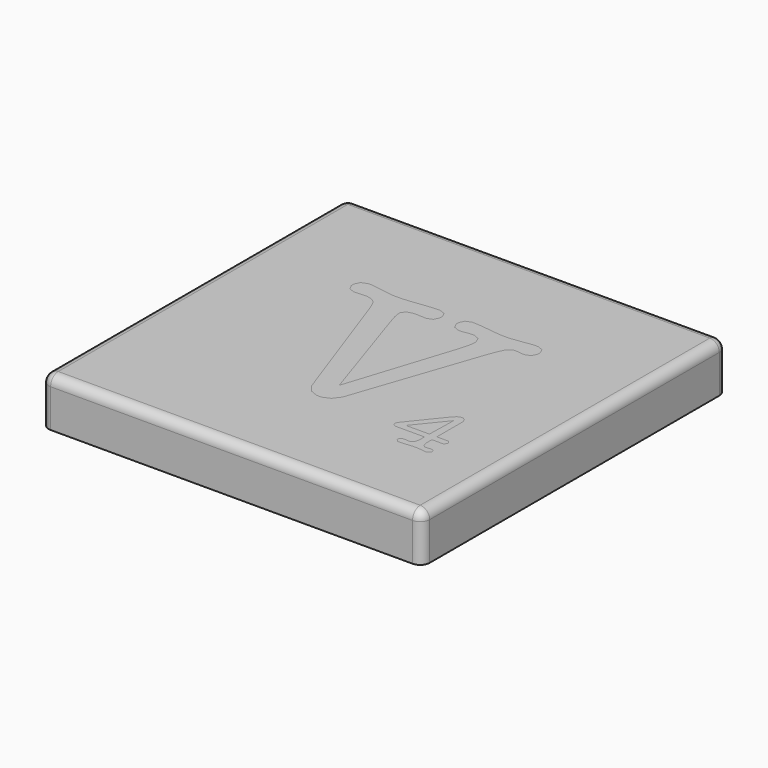
from build123d import *

# Parameters (mm, degrees)
F0_W     = 40
F0_H     = 40
F1_DEPTH = 5
F2_R     = 1
F5_DEPTH = 3


with BuildPart() as f1:
    # F0 (on Top) → F1 (new body)
    with BuildSketch(Plane.XY):
        Rectangle(F0_W, F0_H)
    extrude(amount=-F1_DEPTH)

    # F2
    f2_edges = [f1.edges().sort_by_distance(p)[0] for p in [
        (0, -20, 0),
        (20, 0, 0),
        (0, 20, 0),
        (-20, 0, 0),
        (-20, 20, -2.5),
        (20, 20, -2.5),
        (-20, -20, -2.5),
        (20, -20, -2.5),
    ]]
    fillet(f2_edges, radius=F2_R)


with BuildPart() as f5:
    # F3 (on Top) + F4 (on Top) → F5 (new body)
    with BuildSketch(Plane.XY):
        Polygon((0.516077, -6.520866), (-3.214268, 4.776292), (-3.506445, 5.728513), (-3.528492, 5.800166), (-3.638728, 6.323838), (-3.638728, 6.522263), (-3.638728, 6.66148), (-3.347949, 7.07898), (-2.693391, 7.263663), (-2.47429, 7.263663), (-2.369541, 7.263663), (-2.051228, 7.241616), (-2.023643, 7.237501), (-1.759052, 7.237501), (-1.728749, 7.233336), (-1.581302, 7.209892), (-1.52207, 7.209892), (-1.334643, 7.209892), (-0.768248, 7.449693), (-0.516077, 7.98576), (-0.516077, 8.163535), (-0.516077, 8.327492), (-0.761365, 8.818067), (-1.311224, 9.035821), (-1.494485, 9.035821), (-1.695679, 9.035821), (-2.296516, 8.993099), (-3.211525, 8.892515), (-3.426511, 8.863559), (-3.642868, 8.836), (-4.564786, 8.735416), (-5.180762, 8.692693), (-5.384698, 8.692693), (-5.978627, 8.692693), (-7.757668, 8.935237), (-8.004353, 8.983447), (-8.070494, 8.997213), (-8.540394, 9.061983), (-8.718169, 9.061983), (-8.916619, 9.061983), (-9.511919, 8.825001), (-9.776511, 8.288909), (-9.776511, 8.109763), (-9.776511, 7.936128), (-9.518802, 7.415251), (-8.938666, 7.18373), (-8.744356, 7.18373), (-8.63412, 7.18373), (-8.299247, 7.205777), (-8.24136, 7.209892), (-8.184871, 7.215454), (-7.865161, 7.237501), (-7.739761, 7.237501), (-7.568895, 7.237501), (-7.052107, 7.125868), (-6.637325, 6.862674), (-6.575323, 6.786855), (-6.540856, 6.74276), (-6.331407, 6.344514), (-6.077839, 5.707837), (-6.019978, 5.54388), (-1.283665, -7.765237), (-1.209218, -7.980197), (-0.629082, -8.736736), (0.168808, -9.061958), (0.436143, -9.061958), (0.692455, -9.061958), (1.461414, -8.736736), (2.027758, -7.980197), (2.103577, -7.765237), (6.443015, 4.96095), (6.525666, 5.203469), (6.888124, 6.162599), (7.176135, 6.781343), (7.222973, 6.852996), (7.268439, 6.926047), (7.768692, 7.289851), (7.950581, 7.289851), (8.082864, 7.289851), (8.691982, 7.237501), (8.704351, 7.233336), (8.770518, 7.209892), (8.79668, 7.209892), (8.979992, 7.209892), (9.531198, 7.435926), (9.776485, 7.941666), (9.776485, 8.109763), (9.776485, 8.283397), (9.531198, 8.804326), (8.979992, 9.035821), (8.79668, 9.035821), (8.603793, 9.035821), (8.024978, 8.971051), (7.950581, 8.957285), (7.716291, 8.917305), (6.183935, 8.71888), (5.595518, 8.71888), (5.415001, 8.71888), (4.877562, 8.758834), (4.076903, 8.851163), (3.889502, 8.877351), (3.702075, 8.904884), (2.906954, 8.997213), (2.383333, 9.035821), (2.209698, 9.035821), (2.020875, 9.035821), (1.454506, 8.811209), (1.203706, 8.305444), (1.203706, 8.13595), (1.203706, 7.962341), (1.461414, 7.441438), (2.04155, 7.209892), (2.23586, 7.209892), (2.364029, 7.209892), (2.751226, 7.265035), (2.817393, 7.276059), (2.883535, 7.287082), (3.254223, 7.3422), (3.400323, 7.3422), (3.598748, 7.3422), (4.194073, 7.091401), (4.45864, 6.526403), (4.45864, 6.33763), (4.45864, 6.159856), (4.359402, 5.623789), (4.127906, 4.75013), (4.061765, 4.537888), align=None)
    with BuildSketch(Plane.XY):
        Polygon((12.47872, -8.665563), (12.47872, -5.37893), (12.47872, -5.252159), (12.34918, -4.871819), (12.059798, -4.703697), (11.9647, -4.703697), (11.862745, -4.703697), (11.558173, -4.826353), (11.526474, -4.851144), (11.4948, -4.874588), (11.001456, -5.410629), (10.935315, -5.493306), (8.412129, -8.626981), (8.394197, -8.651771), (8.30738, -8.855733), (8.30738, -8.932898), (8.30738, -9.00318), (8.416244, -9.218166), (8.662929, -9.313238), (8.745606, -9.313238), (11.697365, -9.313238), (11.697365, -9.894771), (11.697365, -10.042218), (11.577477, -10.485956), (11.310142, -10.684381), (11.221928, -10.684381), (10.971129, -10.669217), (10.940826, -10.666474), (10.909127, -10.662333), (10.729981, -10.64717), (10.659699, -10.64717), (10.577022, -10.64717), (10.330363, -10.732615), (10.221473, -10.925554), (10.221473, -10.990324), (10.221473, -11.070232), (10.492948, -11.314148), (10.583906, -11.314148), (10.760309, -11.314148), (11.293607, -11.265914), (11.383167, -11.256287), (11.471356, -11.246635), (11.982607, -11.199772), (12.183801, -11.199772), (12.354692, -11.199772), (12.867315, -11.238355), (12.916946, -11.246635), (12.974808, -11.256287), (13.338612, -11.304496), (13.479175, -11.304496), (13.564596, -11.304496), (13.822304, -11.053697), (13.822304, -10.97102), (13.822304, -10.909018), (13.721695, -10.727103), (13.495711, -10.64717), (13.421263, -10.64717), (13.221467, -10.666474), (13.188396, -10.669217), (12.985831, -10.684381), (12.907269, -10.684381), (12.825964, -10.684381), (12.584841, -10.485956), (12.47872, -10.042218), (12.47872, -9.894771), (12.47872, -9.313238), (13.5839, -9.313238), (13.666602, -9.313238), (13.917376, -9.069322), (13.917376, -8.989413), (13.917376, -8.908108), (13.68174, -8.665563), (13.603204, -8.665563), align=None)
        Polygon((11.697365, -8.665563), (9.23067, -8.665563), (11.764879, -5.551193), align=None, mode=Mode.SUBTRACT)
    extrude(amount=-F5_DEPTH)


solid = Compound([f1.part, f5.part])
